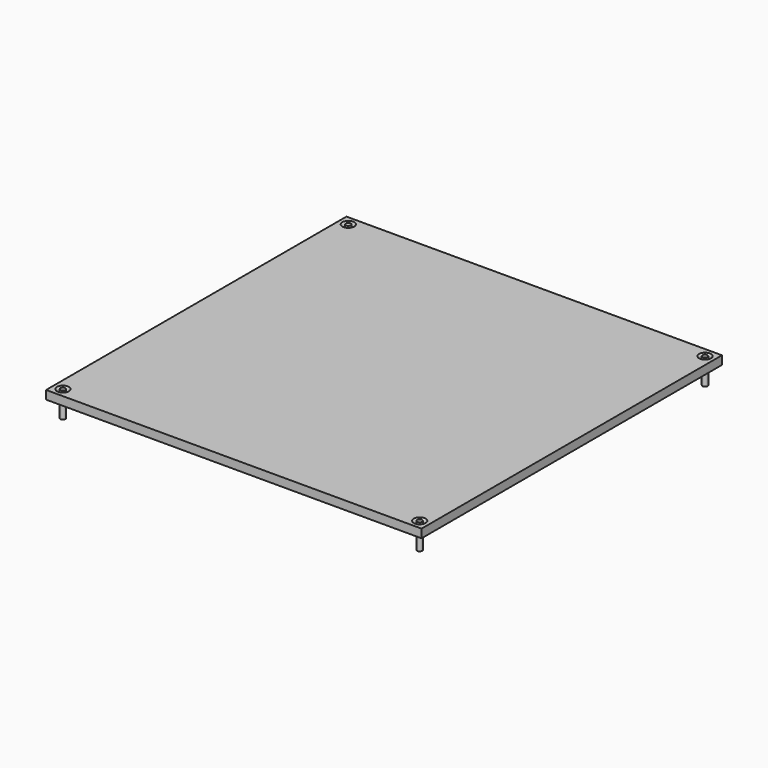
from build123d import *

# Parameters (mm, degrees)
F0_W     = 220
F0_H     = 220
F0_R     = 1.5
F1_DEPTH = 5
F2_SIZE  = 2
F3_DEPTH = 15


with BuildPart() as f1:
    # F0 (on Top) → F1 (new body)
    with BuildSketch(Plane.XY):
        Rectangle(F0_W, F0_H)
        with Locations((-104.5, -104.5)):
            Circle(F0_R, mode=Mode.SUBTRACT)
        with Locations((104.5, -104.5)):
            Circle(F0_R, mode=Mode.SUBTRACT)
        with Locations((-104.5, 104.5)):
            Circle(F0_R, mode=Mode.SUBTRACT)
        with Locations((104.5, 104.5)):
            Circle(F0_R, mode=Mode.SUBTRACT)
    extrude(amount=-F1_DEPTH)

    # F2
    f2_edges = [f1.edges().sort_by_distance(p)[0] for p in [
        (-106, 104.5, 0),
        (103, 104.5, 0),
        (103, -104.5, 0),
        (-106, -104.5, 0),
    ]]
    chamfer(f2_edges, length=F2_SIZE)

    # F0 (on Top) → F3 (join)
    with BuildSketch(Plane.XY):
        with Locations((-104.5, 104.5)):
            Circle(F0_R)
        with Locations((-104.5, -104.5)):
            Circle(F0_R)
        with Locations((104.5, -104.5)):
            Circle(F0_R)
        with Locations((104.5, 104.5)):
            Circle(F0_R)
    extrude(amount=-F3_DEPTH)


solid = f1.part
